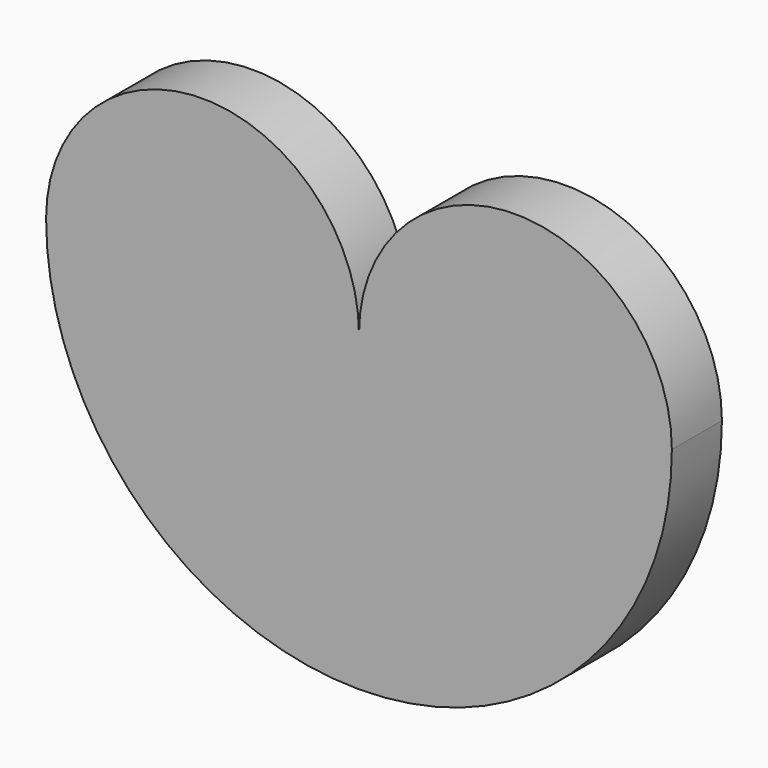
from build123d import *

# Parameters (mm, degrees)
F1_DEPTH = 5


with BuildPart() as f1:
    # F0 (on Front) → F1 (new body)
    with BuildSketch(Plane.XZ):
        with BuildLine():
            ThreePointArc((0, 0), (-12.5, 12.5), (-25, 0))
            ThreePointArc((-25, 0), (0, -25), (25, 0))
            ThreePointArc((25, 0), (12.5, 12.5), (0, 0))
        make_face()
    extrude(amount=F1_DEPTH)


solid = f1.part
